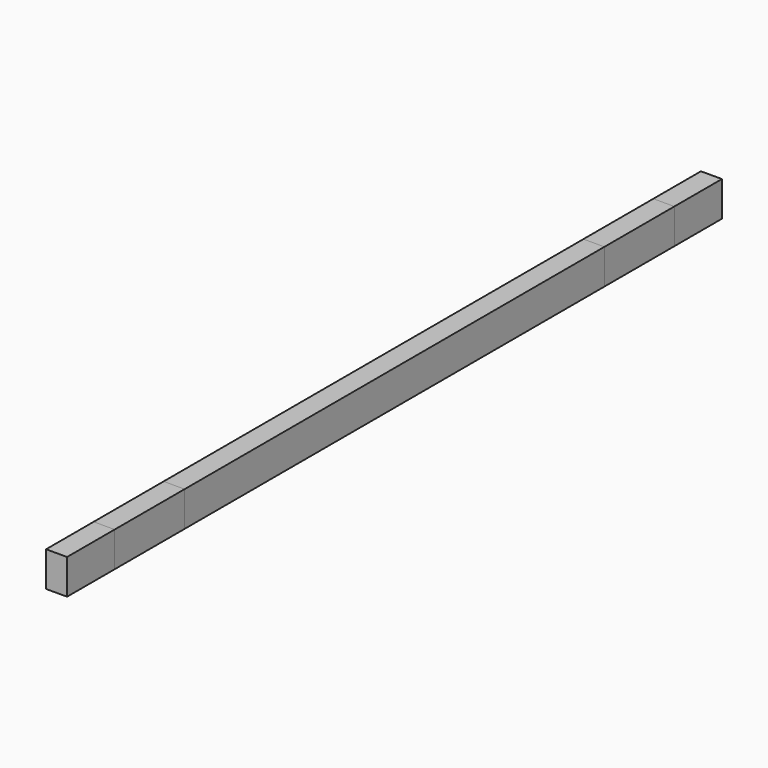
from build123d import *

# Parameters (mm, degrees)
F0_W     = 30
F0_H     = 50
F1_DEPTH = 585
F2_DEPTH = 500
F3_DEPTH = 375


with BuildPart() as f1:
    # F0 (on Front) → F1 (new body, symmetric)
    with BuildSketch(Plane.XZ):
        with Locations((1.079545, 0.473484)):
            Rectangle(F0_W, F0_H)
    extrude(amount=F1_DEPTH, both=True)


with BuildPart() as f2:
    # F0 (on Front) → F2 (new body, symmetric)
    with BuildSketch(Plane.XZ):
        with Locations((1.079545, 0.473484)):
            Rectangle(F0_W, F0_H)
    extrude(amount=F2_DEPTH, both=True)


with BuildPart() as f3:
    # F0 (on Front) → F3 (new body, symmetric)
    with BuildSketch(Plane.XZ):
        with Locations((1.079545, 0.473484)):
            Rectangle(F0_W, F0_H)
    extrude(amount=F3_DEPTH, both=True)


solid = Compound([f1.part, f2.part, f3.part])
